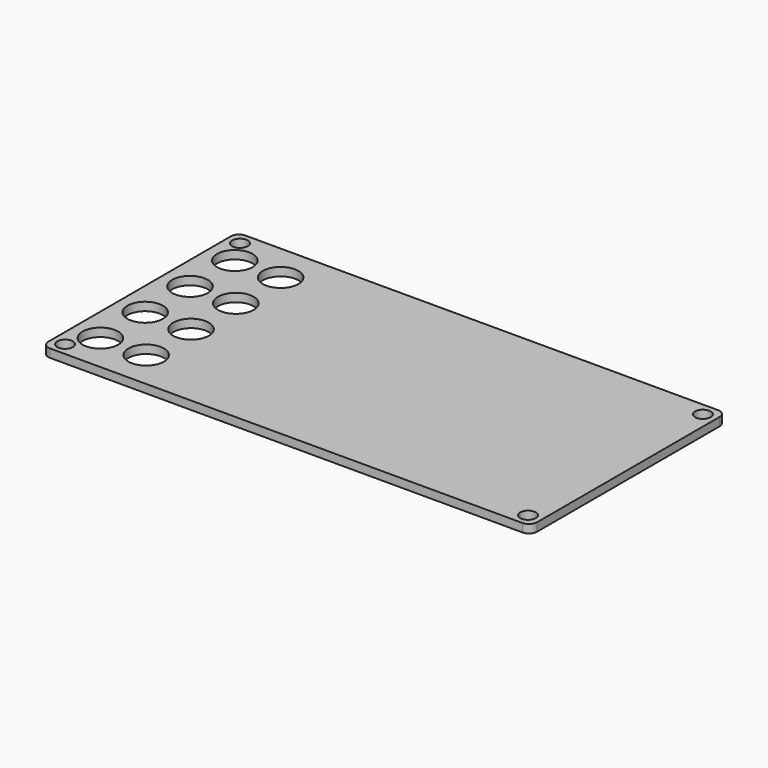
from build123d import *

# Parameters (mm, degrees)
F0_W     = 304.8
F0_H     = 152.4
F1_DEPTH = 5.207
F2_R     = 5.08
F3_R     = 4.8895
F4_DEPTH = 5.208
F5_R     = 11.1125
F6_DEPTH = 5.208


with BuildPart() as f1:
    # F0 (on Top) → F1 (new body)
    with BuildSketch(Plane.XY):
        Rectangle(F0_W, F0_H)
    extrude(amount=F1_DEPTH)

    # F2
    f2_edges = [f1.edges().sort_by_distance(p)[0] for p in [
        (-152.4, 76.2, 2.6035),
        (-152.4, -76.2, 2.6035),
        (152.4, 76.2, 2.6035),
        (152.4, -76.2, 2.6035),
    ]]
    fillet(f2_edges, radius=F2_R)

    # F3 (on face) → F4 (cut, through all)
    with BuildSketch(Plane.XY.offset(5.207)):
        with Locations((-144.3355, 68.1355)):
            Circle(F3_R)
        with Locations((-144.3355, -68.1355)):
            Circle(F3_R)
        with Locations((144.3355, 68.1355)):
            Circle(F3_R)
        with Locations((144.3355, -68.1355)):
            Circle(F3_R)
    extrude(amount=-F4_DEPTH, mode=Mode.SUBTRACT)

    # F5 (on face) → F6 (cut, through all)
    with BuildSketch(Plane.XY.offset(5.207)):
        with Locations((-106.3625, -52.3875)):
            Circle(F5_R)
        with Locations((-134.9375, -52.3875)):
            Circle(F5_R)
        with Locations((-134.9375, -17.4625)):
            Circle(F5_R)
        with Locations((-106.3625, -17.4625)):
            Circle(F5_R)
        with Locations((-134.9375, 17.4625)):
            Circle(F5_R)
        with Locations((-106.3625, 17.4625)):
            Circle(F5_R)
        with Locations((-134.9375, 52.3875)):
            Circle(F5_R)
        with Locations((-106.3625, 52.3875)):
            Circle(F5_R)
    extrude(amount=-F6_DEPTH, mode=Mode.SUBTRACT)


solid = f1.part
